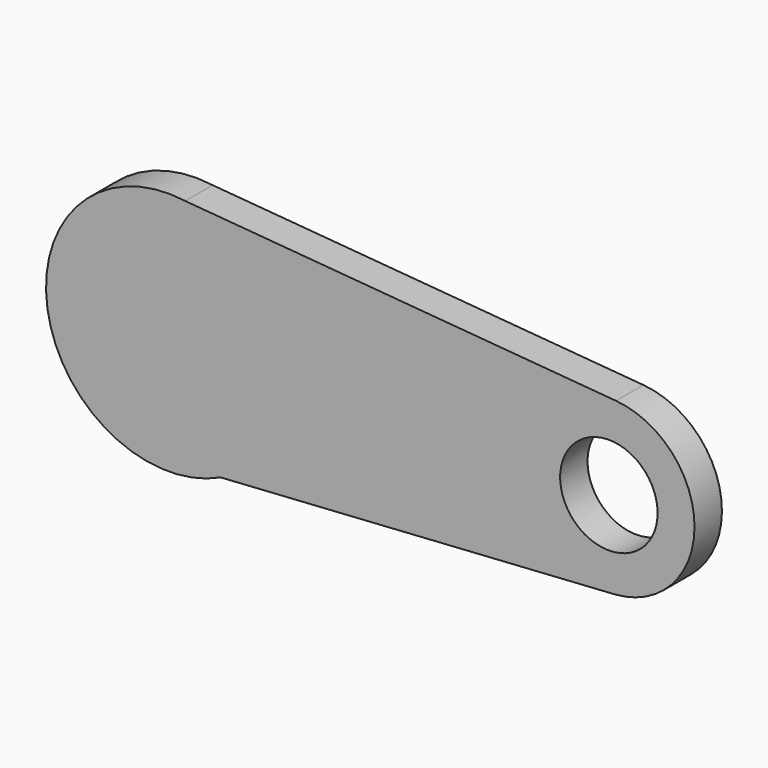
from build123d import *

# Parameters (mm, degrees)
F0_R     = 355.7076879014
F0_R_2   = 252.8511966315
F1_DEPTH = 50.8
F2_DEPTH = 127


with BuildPart() as f1:
    # F0 (on Front) → F1 (new body)
    with BuildSketch(Plane.XZ):
        with BuildLine():
            ThreePointArc((270.6258134175, -574.444661488), (536.2240163962, -340.1305693994), (635, 0))
            ThreePointArc((635, 0), (478.9366700197, 416.9468384704), (87.457744534, 628.9484421803))
            ThreePointArc((87.457744534, 628.9484421803), (-618.9545112294, 141.846089226), (-195.1587040305, -604.2665638947))
            Line((-195.1587040305, -604.2665638947), (270.6258134175, -574.444661488))
        make_face()
        Circle(F0_R, mode=Mode.SUBTRACT)
        with BuildLine():
            ThreePointArc((87.457744534, 628.9484421803), (478.9366700197, 416.9468384704), (635, 0))
            ThreePointArc((635, 0), (536.2240163962, -340.1305693994), (270.6258134175, -574.444661488))
            Line((270.6258134175, -574.444661488), (2314.4010075815, -443.5917410957))
            ThreePointArc((2314.4010075815, -443.5917410957), (1841.5202023269, 4.2378603641), (2322.8538620739, 442.9695732782))
            Line((2322.8538620739, 442.9695732782), (87.457744534, 628.9484421803))
        make_face()
        with BuildLine():
            ThreePointArc((-195.1587040305, -604.2665638947), (40.5728679735, -633.7024872796), (270.6258134175, -574.444661488))
            Line((270.6258134175, -574.444661488), (-195.1587040305, -604.2665638947))
        make_face()
        with BuildLine():
            ThreePointArc((2730.5, 0), (2613.0793418208, 300.9972660243), (2322.8538620739, 442.9695732782))
            ThreePointArc((2322.8538620739, 442.9695732782), (1841.5202023269, 4.2378603641), (2314.4010075815, -443.5917410957))
            ThreePointArc((2314.4010075815, -443.5917410957), (2610.1947700611, -304.101958338), (2730.5, 0))
        make_face()
        with Locations((2286, 0)):
            Circle(F0_R_2, mode=Mode.SUBTRACT)
        Circle(F0_R)
    extrude(amount=F1_DEPTH)

    # F2 (add): a face of the model
    f2_faces = [f1.faces().sort_by_distance(p)[0] for p in [
        (870.0059468679, -50.8, 7.3992180839),
    ]]
    extrude(f2_faces, amount=F2_DEPTH)


solid = f1.part
